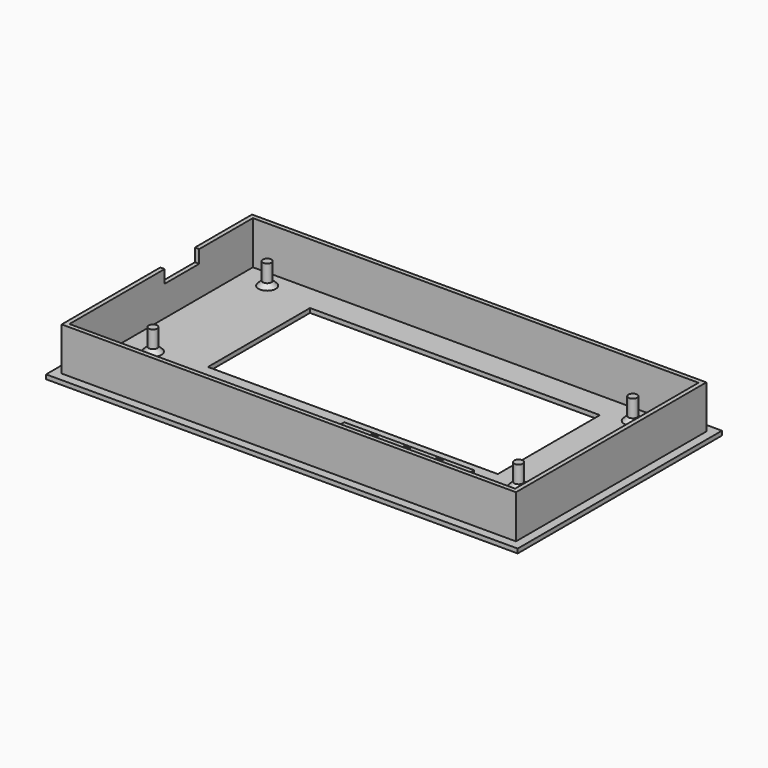
from build123d import *

# Parameters (mm, degrees)
SKETCH077_W     = 109
SKETCH077_H     = 59
SKETCH077_R     = 2.5
SKETCH077_W_2   = 67
SKETCH077_H_2   = 29.5
PAD052_DEPTH    = 1
SKETCH078_R     = 1
PAD053_DEPTH    = 5
SKETCH079_W     = 105
SKETCH079_H     = 55
SKETCH079_W_2   = 103
SKETCH079_H_2   = 53
PAD054_DEPTH    = 10
SKETCH081_W     = 30
SKETCH081_H     = 10
PAD055_DEPTH    = 2
SKETCH082_W     = 10
SKETCH082_H     = 3
POCKET017_DEPTH = 5
CHAMFER009_SIZE = 1


with BuildPart() as part:
    # Sketch077 → Pad052 (new body)
    with BuildSketch(Plane.XY):
        with Locations((54.5, 29.5)):
            Rectangle(SKETCH077_W, SKETCH077_H)
        with Locations((63.6, 11.5)):
            Circle(SKETCH077_R, mode=Mode.SUBTRACT)
        with Locations((71.1, 11.5)):
            Circle(SKETCH077_R, mode=Mode.SUBTRACT)
        with Locations((78.6, 11.5)):
            Circle(SKETCH077_R, mode=Mode.SUBTRACT)
        with Locations((54.5, 35.25)):
            Rectangle(SKETCH077_W_2, SKETCH077_H_2, mode=Mode.SUBTRACT)
    extrude(amount=PAD052_DEPTH)

    # Sketch078 → Pad053 (join)
    with BuildSketch(Plane.XY.offset(1)):
        with Locations((9.5, 52)):
            Circle(SKETCH078_R)
        with Locations((94, 52)):
            Circle(SKETCH078_R)
        with Locations((94, 19)):
            Circle(SKETCH078_R)
        with Locations((9.5, 19)):
            Circle(SKETCH078_R)
    extrude(amount=PAD053_DEPTH)

    # Sketch079 → Pad054 (join)
    with BuildSketch(Plane.XY.offset(1)):
        with Locations((54.5, 29.5)):
            Rectangle(SKETCH079_W, SKETCH079_H)
        with Locations((54.5, 29.5)):
            Rectangle(SKETCH079_W_2, SKETCH079_H_2, mode=Mode.SUBTRACT)
    extrude(amount=PAD054_DEPTH)

    # Sketch081 → Pad055 (join)
    with BuildSketch(Plane.XY.offset(1)):
        with Locations((71.1, 11)):
            Rectangle(SKETCH081_W, SKETCH081_H)
        with BuildLine():
            ThreePointArc((62.85, 14.507906), (63.6, 8.4), (64.35, 14.507906))
            Line((64.35, 15.507906), (64.35, 14.507906))
            Line((62.85, 15.507906), (64.35, 15.507906))
            Line((62.85, 14.507906), (62.85, 15.507906))
        make_face(mode=Mode.SUBTRACT)
        with BuildLine():
            ThreePointArc((70.35, 14.507906), (71.1, 8.4), (71.85, 14.507906))
            Line((71.85, 15.507906), (71.85, 14.507906))
            Line((70.35, 15.507906), (71.85, 15.507906))
            Line((70.35, 14.507906), (70.35, 15.507906))
        make_face(mode=Mode.SUBTRACT)
        with BuildLine():
            ThreePointArc((77.85, 14.507906), (78.6, 8.4), (79.35, 14.507906))
            Line((79.35, 15.507906), (79.35, 14.507906))
            Line((77.85, 15.507906), (79.35, 15.507906))
            Line((77.85, 14.507906), (77.85, 15.507906))
        make_face(mode=Mode.SUBTRACT)
    extrude(amount=PAD055_DEPTH)

    # Sketch082 (on Face14 of Pad055) → Pocket017 (cut)
    with BuildSketch(Plane(origin=(2, 0, 0), x_dir=(0, -1, 0), z_dir=(-1, 0, 0))):
        with Locations((-35.5, 9.5)):
            Rectangle(SKETCH082_W, SKETCH082_H)
    extrude(amount=-POCKET017_DEPTH, mode=Mode.SUBTRACT)

    # Chamfer009
    chamfer009_edges = [part.edges().sort_by_distance(p)[0] for p in [
        (8.5, 52, 1),
        (8.5, 19, 1),
        (93, 19, 1),
        (93, 52, 1),
    ]]
    chamfer(chamfer009_edges, length=CHAMFER009_SIZE)


solid = part.part
